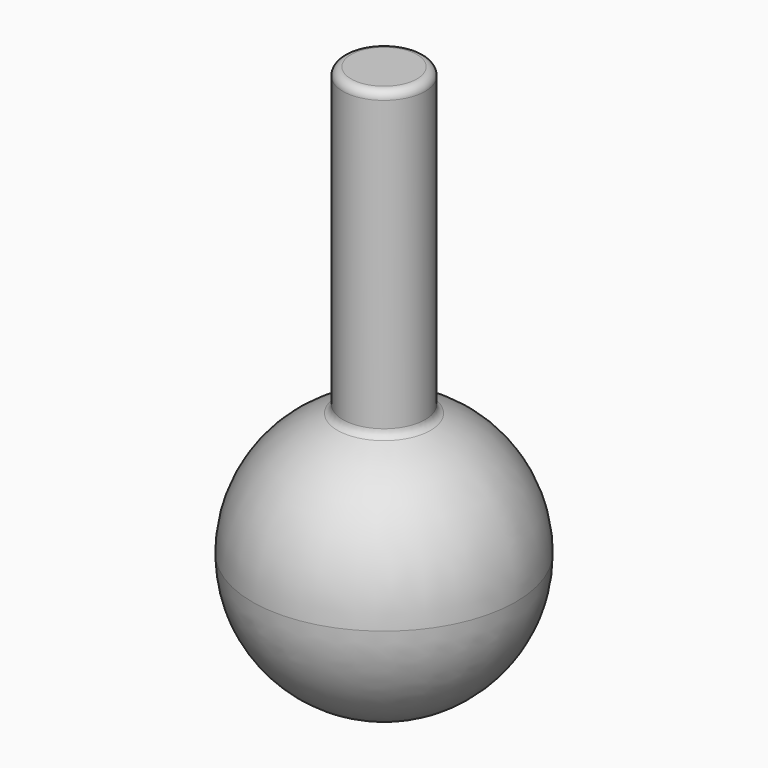
from build123d import *

# Parameters (mm, degrees)
F2_R     = 25
F3_DEPTH = 260
F4_R     = 5
F5_R     = 5


with BuildPart() as f1:
    # F0 (on Front) → F1 (revolve)
    with BuildSketch(Plane.XZ):
        with BuildLine():
            ThreePointArc((0, -80), (56.568542, -56.568542), (80, 0))
            ThreePointArc((80, 0), (56.568542, 56.568542), (0, 80))
            Line((0, 80), (0, -80))
        make_face()
    revolve(axis=Axis((0, 0, 0), (0, 0, -1)))

    # F2 (on Top) → F3 (join)
    with BuildSketch(Plane.XY):
        Circle(F2_R)
    extrude(amount=F3_DEPTH)

    # F4
    f4_edges = [f1.edges().sort_by_distance(p)[0] for p in [
        (-25, 0, 260),
    ]]
    fillet(f4_edges, radius=F4_R)

    # F5
    f5_edges = [f1.edges().sort_by_distance(p)[0] for p in [
        (-25, 0, 75.993421),
    ]]
    fillet(f5_edges, radius=F5_R)


solid = f1.part
